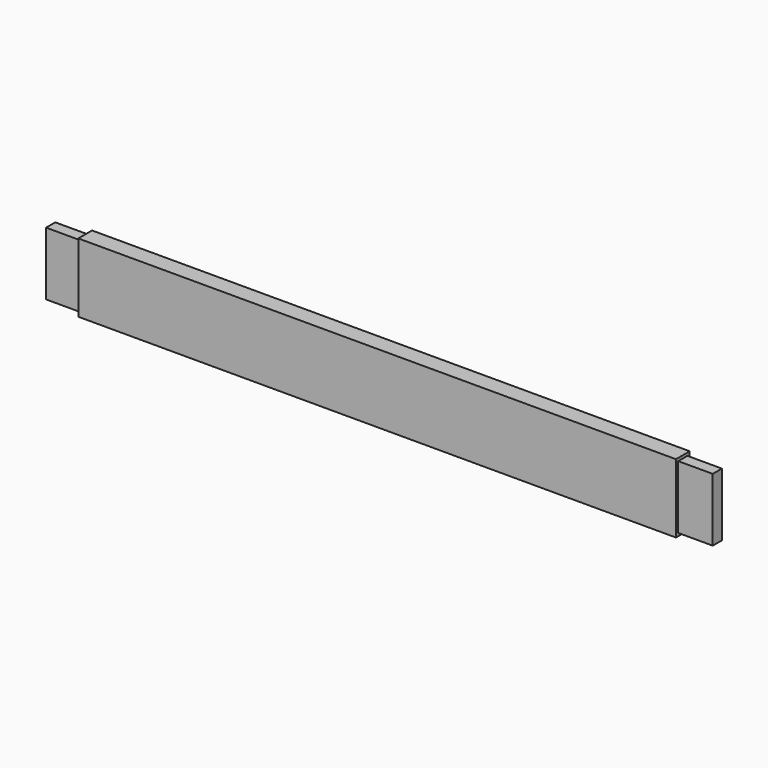
from build123d import *

# Parameters (mm, degrees)
F0_W     = 660.4
F0_H     = 76.2
F1_DEPTH = 9.525
F2_W     = 12.7
F2_H     = 69.85
F3_W     = 12.7
F3_H     = 69.85
F4_DEPTH = 38.1
F5_DEPTH = 38.1


with BuildPart() as f1:
    # F0 (on Front) → F1 (new body, symmetric)
    with BuildSketch(Plane.XZ):
        Rectangle(F0_W, F0_H)
    extrude(amount=F1_DEPTH, both=True)

    # F2 (on face) + F3 (on face) → F4 (join)
    with BuildSketch(Plane.YZ.offset(330.2)):
        Rectangle(F2_W, F2_H)
    with BuildSketch(Plane(origin=(-330.2, 0, 0), x_dir=(0, -1, 0), z_dir=(-1, 0, 0))):
        Rectangle(F3_W, F3_H)
    extrude(amount=F4_DEPTH)

    # F3 (on face) → F5 (join)
    with BuildSketch(Plane(origin=(-330.2, 0, 0), x_dir=(0, -1, 0), z_dir=(-1, 0, 0))):
        Rectangle(F3_W, F3_H)
    extrude(amount=F5_DEPTH)


solid = f1.part
